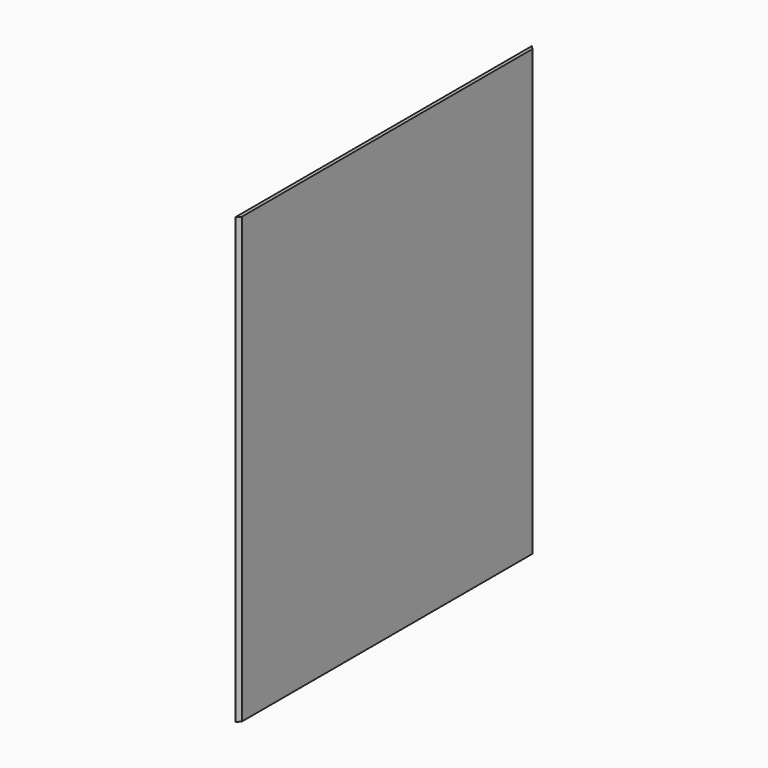
from build123d import *

# Parameters (mm, degrees)
F0_W     = 508
F0_H     = 609.6
F1_DEPTH = 4.7625
F3_DEPTH = 609.601
F5_DEPTH = 609.601


with BuildPart() as f1:
    # F0 (on Right) → F1 (new body)
    with BuildSketch(Plane.YZ):
        Rectangle(F0_W, F0_H)
    extrude(amount=F1_DEPTH)

    # F2 (on face) → F3 (cut, through all)
    with BuildSketch(Plane.XY.offset(304.8)):
        Polygon((0, -254), (4.7625, -254), (4.7625, -249.2375), align=None)
    extrude(amount=-F3_DEPTH, mode=Mode.SUBTRACT)

    # F4 (on face) → F5 (cut, through all)
    with BuildSketch(Plane.XY.offset(304.8)):
        Polygon((4.7625, 249.2375), (4.7625, 254), (0, 254), align=None)
    extrude(amount=-F5_DEPTH, mode=Mode.SUBTRACT)


solid = f1.part
